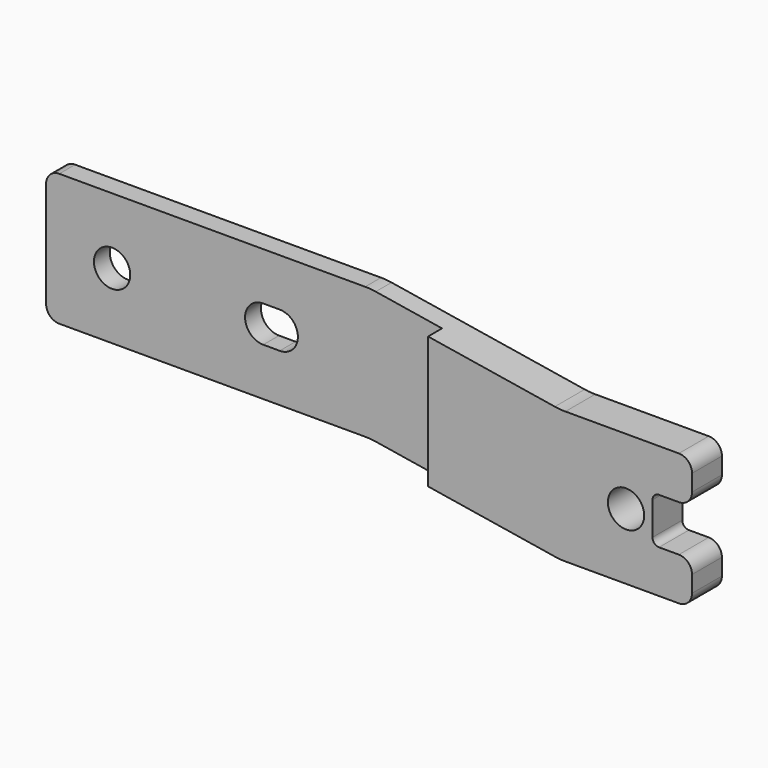
from build123d import *

# Parameters (mm, degrees)
F0_R     = 2.75
F1_DEPTH = 3
F2_R     = 2.75
F3_DEPTH = 2.65684
F4_R     = 1
F5_R     = 2
F6_R     = 10


with BuildPart() as f1:
    # F0 (on Front) → F1 (new body)
    with BuildSketch(Plane.XZ):
        Polygon((-10.85, 10), (-60, 10), (-60, -10), (-10.85, -10), (0, -11.7585089141), (0, 8.2414910859), align=None)
        with Locations((-50, 0)):
            Circle(F0_R, mode=Mode.SUBTRACT)
        with BuildLine():
            ThreePointArc((-27.1, -2.75), (-29.85, 0), (-27.1, 2.75))
            Line((-27.1, 2.75), (-24.6, 2.75))
            ThreePointArc((-24.6, 2.75), (-21.85, 0), (-24.6, -2.75))
            Line((-24.6, -2.75), (-27.1, -2.75))
        make_face(mode=Mode.SUBTRACT)
        Polygon((20, 5), (0, 8.2414910859), (0, -11.7585089141), (20, -15), (40, -15), (40, -8.5), (34, -8.5), (34, -1.5), (40, -1.5), (40, 5), align=None)
        with Locations((30, -5)):
            Circle(F0_R, mode=Mode.SUBTRACT)
    extrude(amount=F1_DEPTH)

    # F2 (on face) → F3 (join)
    with BuildSketch(Plane.XZ.offset(3)):
        Polygon((20, -15), (40, -15), (40, -8.5), (34, -8.5), (34, -1.5), (40, -1.5), (40, 5), (20, 5), align=None)
        with Locations((30, -5)):
            Circle(F2_R, mode=Mode.SUBTRACT)
        Polygon((0, -11.7585089141), (20, -15), (20, 5), (0, 8.2414910859), align=None)
    extrude(amount=F3_DEPTH)

    # F4
    f4_edges = [f1.edges().sort_by_distance(p)[0] for p in [
        (34, -2.82842, -1.5),
        (34, -2.82842, -8.5),
    ]]
    fillet(f4_edges, radius=F4_R)

    # F5
    f5_edges = [f1.edges().sort_by_distance(p)[0] for p in [
        (40, -2.82842, 5),
        (40, -2.82842, -8.5),
        (40, -2.82842, -1.5),
        (40, -2.82842, -15),
        (-60, -1.5, 10),
        (-60, -1.5, -10),
    ]]
    fillet(f5_edges, radius=F5_R)

    # F6
    f6_edges = [f1.edges().sort_by_distance(p)[0] for p in [
        (-10.85, -1.5, 10),
        (20, -2.82842, 5),
        (-10.85, -1.5, -10),
        (20, -2.82842, -15),
    ]]
    fillet(f6_edges, radius=F6_R)


solid = f1.part
